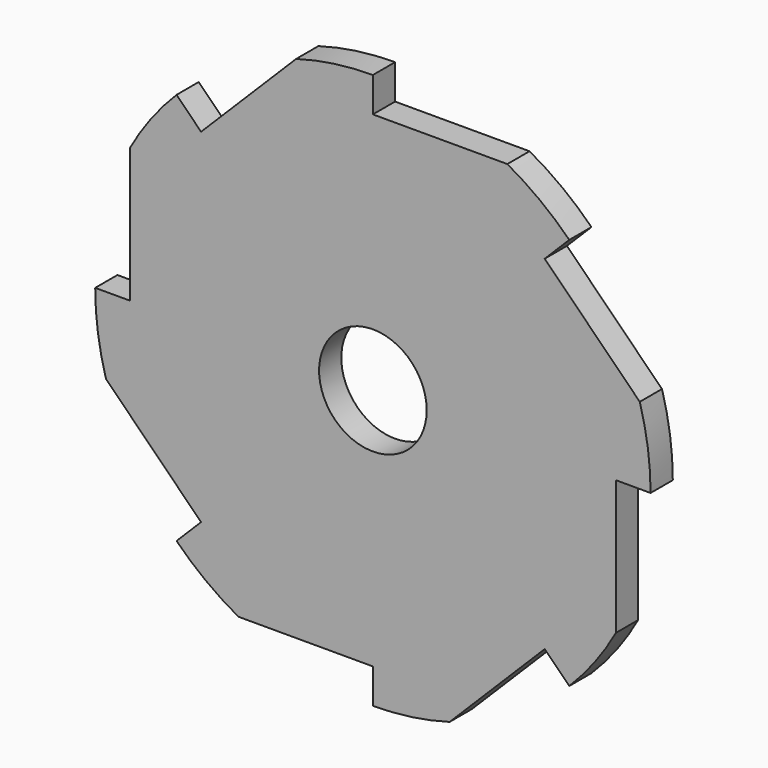
from build123d import *

# Parameters (mm, degrees)
F0_R     = 7.75
F1_DEPTH = 4


with BuildPart() as f1:
    # F0 (on Front) → F1 (new body)
    with BuildSketch(Plane.XZ):
        with BuildLine():
            ThreePointArc((24.748737, -24.748737), (32.335784, -13.39392), (35, 0))
            ThreePointArc((35, 0), (32.335784, 13.39392), (24.748737, 24.748737))
            ThreePointArc((24.748737, 24.748737), (13.39392, 32.335784), (0, 35))
            ThreePointArc((0, 35), (-13.39392, 32.335784), (-24.748737, 24.748737))
            ThreePointArc((-24.748737, 24.748737), (-32.335784, 13.39392), (-35, 0))
            ThreePointArc((-35, 0), (-32.335784, -13.39392), (-24.748737, -24.748737))
            ThreePointArc((-24.748737, -24.748737), (-13.39392, -32.335784), (0, -35))
            ThreePointArc((0, -35), (13.39392, -32.335784), (24.748737, -24.748737))
        make_face()
        Circle(F0_R, mode=Mode.SUBTRACT)
        with BuildLine():
            ThreePointArc((-35, 0), (-32.335784, 13.39392), (-24.748737, 24.748737))
            Line((-24.748737, 24.748737), (-28.284271, 28.284271))
            ThreePointArc((-28.284271, 28.284271), (-31.954866, 24.060061), (-35, 19.364917))
            Line((-35, 19.364917), (-35, 0))
        make_face()
        with BuildLine():
            ThreePointArc((-24.748737, 24.748737), (-13.39392, 32.335784), (0, 35))
            Line((0, 35), (0, 40))
            ThreePointArc((0, 40), (-5.58247, 39.608535), (-11.055673, 38.441801))
            Line((-11.055673, 38.441801), (-24.748737, 24.748737))
        make_face()
        with BuildLine():
            Line((24.748737, 24.748737), (28.284271, 28.284271))
            ThreePointArc((28.284271, 28.284271), (24.060061, 31.954866), (19.364917, 35))
            Line((19.364917, 35), (0, 35))
            ThreePointArc((0, 35), (13.39392, 32.335784), (24.748737, 24.748737))
        make_face()
        with BuildLine():
            Line((35, 0), (40, 0))
            ThreePointArc((40, 0), (39.608535, 5.58247), (38.441801, 11.055673))
            Line((38.441801, 11.055673), (24.748737, 24.748737))
            ThreePointArc((24.748737, 24.748737), (32.335784, 13.39392), (35, 0))
        make_face()
        with BuildLine():
            ThreePointArc((28.284271, -28.284271), (31.954866, -24.060061), (35, -19.364917))
            Line((35, -19.364917), (35, 0))
            ThreePointArc((35, 0), (32.335784, -13.39392), (24.748737, -24.748737))
            Line((24.748737, -24.748737), (28.284271, -28.284271))
        make_face()
        with BuildLine():
            Line((11.055673, -38.441801), (24.748737, -24.748737))
            ThreePointArc((24.748737, -24.748737), (13.39392, -32.335784), (0, -35))
            Line((0, -35), (0, -40))
            ThreePointArc((0, -40), (5.58247, -39.608535), (11.055673, -38.441801))
        make_face()
        with BuildLine():
            Line((-19.364917, -35), (0, -35))
            ThreePointArc((0, -35), (-13.39392, -32.335784), (-24.748737, -24.748737))
            Line((-24.748737, -24.748737), (-28.284271, -28.284271))
            ThreePointArc((-28.284271, -28.284271), (-24.060061, -31.954866), (-19.364917, -35))
        make_face()
        with BuildLine():
            Line((-38.441801, -11.055673), (-24.748737, -24.748737))
            ThreePointArc((-24.748737, -24.748737), (-32.335784, -13.39392), (-35, 0))
            Line((-35, 0), (-40, 0))
            ThreePointArc((-40, 0), (-39.608535, -5.58247), (-38.441801, -11.055673))
        make_face()
    extrude(amount=F1_DEPTH)


solid = f1.part
